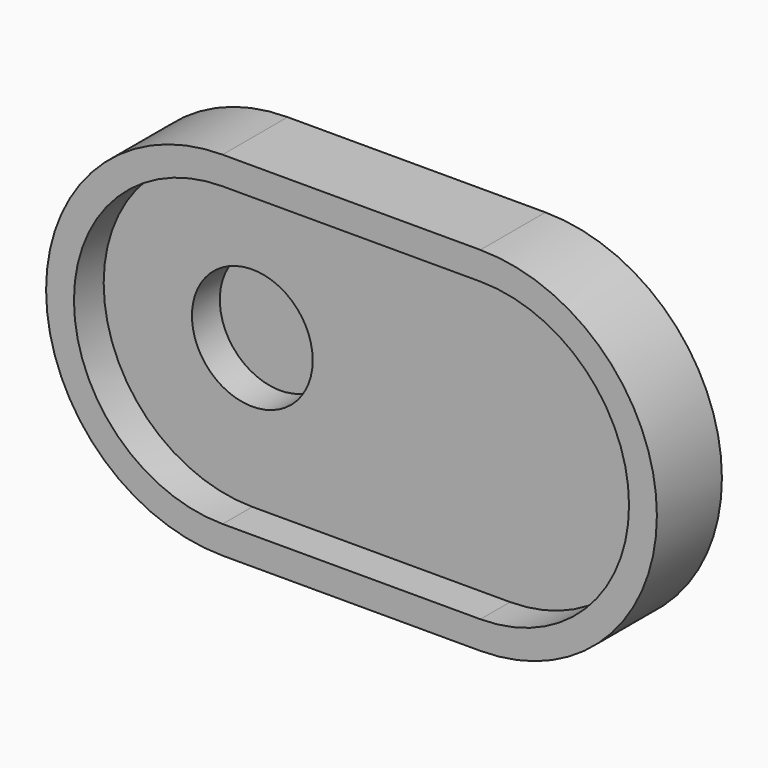
from build123d import *

# Parameters (mm, degrees)
F1_DEPTH = 35
F4_DEPTH = 19
F5_R     = 26
F6_DEPTH = 15


with BuildPart() as f1:
    # F0 (on Front) → F1 (new body)
    with BuildSketch(Plane.XZ):
        with BuildLine():
            Line((111, 76), (0, 76))
            ThreePointArc((0, 76), (-76, 0), (0, -76))
            Line((0, -76), (111, -76))
            ThreePointArc((111, -76), (187, 0), (111, 76))
        make_face()
    extrude(amount=F1_DEPTH)

    # F3 (on offset) → F4 (cut)
    with BuildSketch(Plane.XZ.offset(19)):
        with BuildLine():
            Line((111, 64), (0, 64))
            ThreePointArc((0, 64), (-64, 0), (0, -64))
            Line((0, -64), (111, -64))
            ThreePointArc((111, -64), (175, 0), (111, 64))
        make_face()
    extrude(amount=F4_DEPTH, mode=Mode.SUBTRACT)

    # F5 (on offset) → F6 (cut)
    with BuildSketch(Plane.XZ.offset(19)):
        Circle(F5_R)
    extrude(amount=-F6_DEPTH, mode=Mode.SUBTRACT)


solid = f1.part
